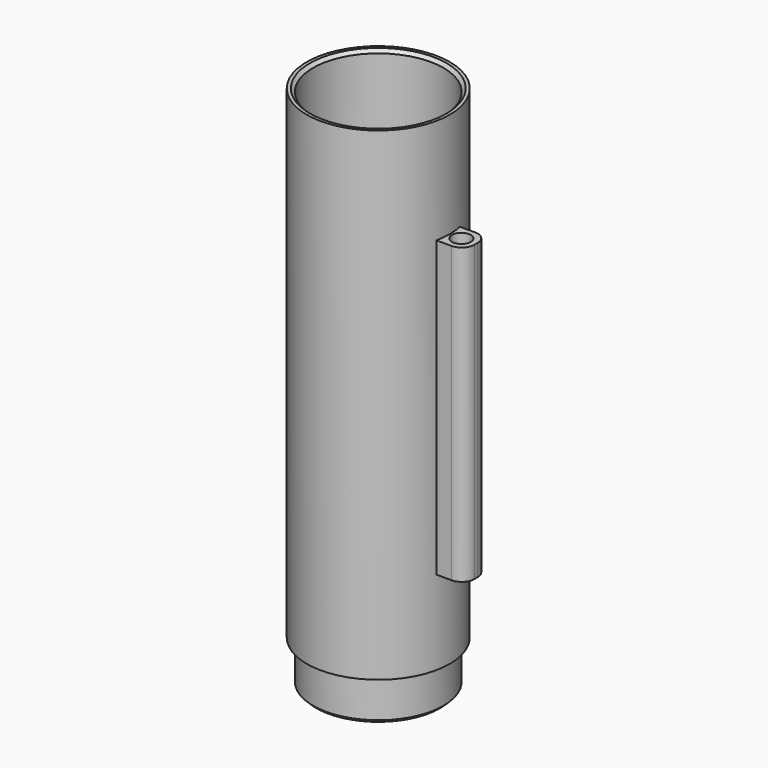
from build123d import *

# Parameters (mm, degrees)
F1_R      = 17
F1_R_2    = 15.5
F2_DEPTH  = 115
F3_SIZE   = 0.75
F4_R      = 17
F5_DEPTH  = 2
F6_R      = 15.5
F7_DEPTH  = 10
F8_SIZE   = 0.75
F10_R     = 2.25
F11_DEPTH = 70


with BuildPart() as f2:
    # F1 (on offset) → F2 (new body)
    with BuildSketch(Plane.XY.offset(107)):
        Circle(F1_R)
        Circle(F1_R_2, mode=Mode.SUBTRACT)
    extrude(amount=F2_DEPTH)

    # F3
    f3_edges = [f2.edges().sort_by_distance(p)[0] for p in [
        (-15.5, 0, 222),
    ]]
    chamfer(f3_edges, length=F3_SIZE)

    # F4 (on offset) → F5 (join)
    with BuildSketch(Plane.XY.offset(107)):
        Circle(F4_R)
    extrude(amount=F5_DEPTH)

    # F6 (on face) → F7 (join)
    with BuildSketch(Plane(origin=(0, 0, 107), x_dir=(1, 0, 0), z_dir=(0, 0, -1))):
        Circle(F6_R)
    extrude(amount=F7_DEPTH)

    # F8
    f8_edges = [f2.edges().sort_by_distance(p)[0] for p in [
        (-15.5, 0, 97),
    ]]
    chamfer(f8_edges, length=F8_SIZE)


with BuildPart() as f11:
    # F10 (on offset) → F11 (new body)
    with BuildSketch(Plane.XY.offset(127)):
        with BuildLine():
            Line((20.260046, 3.5), (16.260046, 3.5))
            Line((16.260046, 3.5), (16.260046, -3.5))
            Line((16.260046, -3.5), (20.260046, -3.5))
            ThreePointArc((20.260046, -3.5), (22.381366, -2.62132), (23.260046, -0.5))
            Line((23.260046, -0.5), (23.260046, 0.5))
            ThreePointArc((23.260046, 0.5), (22.381366, 2.62132), (20.260046, 3.5))
        make_face()
        with Locations((19.760046, 0)):
            Circle(F10_R, mode=Mode.SUBTRACT)
    extrude(amount=F11_DEPTH)

    # F12: cut F2
    add(f2.part, mode=Mode.SUBTRACT)


solid = Compound([f2.part, f11.part])
